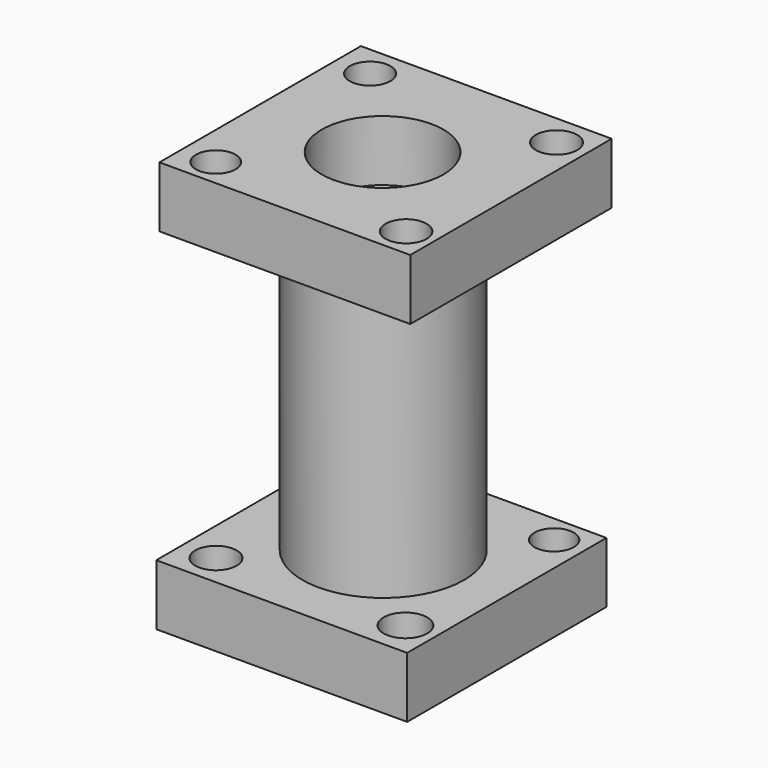
from build123d import *

# Parameters (mm, degrees)
F0_W      = 78.632404
F0_H      = 78.044064
F1_DEPTH  = 19.05
F7_R      = 19.67966
F8_DEPTH  = 25.4
F9_R      = 25.337788
F10_DEPTH = 88.9
F11_W     = 78.605324
F11_H     = 78.906078
F12_DEPTH = 19.05
F13_R     = 19.066656
F14_DEPTH = 19.05
F6_R      = 6.832472
F15_DEPTH = 304.8
F4_R      = 6.169539
F16_DEPTH = 25.4
F3_R      = 6.600699
F17_DEPTH = 25.4
F5_R      = 6.490494
F18_DEPTH = 25.4
F19_R     = 6.482052
F19_R_2   = 6.426585
F19_R_3   = 6.219267
F19_R_4   = 6.38041
F20_DEPTH = 25.4


with BuildPart() as f1:
    # F0 (on Top) → F1 (new body)
    with BuildSketch(Plane.XY):
        with Locations((-12.092622, -33.094514)):
            Rectangle(F0_W, F0_H)
    extrude(amount=F1_DEPTH)

    # F7 (on face) → F8 (cut)
    with BuildSketch(Plane.XY.offset(19.05)):
        with Locations((-11.63225, -33.066146)):
            Circle(F7_R)
    extrude(amount=-F8_DEPTH, mode=Mode.SUBTRACT)

    # F9 (on face) → F10 (join)
    with BuildSketch(Plane.XY.offset(19.05)):
        with Locations((-11.359275, -33.27705)):
            Circle(F9_R)
    extrude(amount=F10_DEPTH)

    # F11 (on face) → F12 (join)
    with BuildSketch(Plane.XY.offset(107.95)):
        with Locations((-13.666842, -29.469063)):
            Rectangle(F11_W, F11_H)
    extrude(amount=F12_DEPTH)

    # F13 (on face) → F14 (cut)
    with BuildSketch(Plane.XY.offset(127)):
        with Locations((-13.757879, -30.534975)):
            Circle(F13_R)
    extrude(amount=-F14_DEPTH, mode=Mode.SUBTRACT)

    # F6 (on face) → F15 (cut)
    with BuildSketch(Plane.XY.offset(19.05)):
        with Locations((17.793169, -61.01913)):
            Circle(F6_R)
    extrude(amount=-F15_DEPTH, mode=Mode.SUBTRACT)

    # F4 (on face) → F16 (cut)
    with BuildSketch(Plane.XY.offset(19.05)):
        with Locations((17.894953, -2.897272)):
            Circle(F4_R)
    extrude(amount=-F16_DEPTH, mode=Mode.SUBTRACT)

    # F3 (on face) → F17 (cut)
    with BuildSketch(Plane.XY.offset(19.05)):
        with Locations((-42.325243, -4.469179)):
            Circle(F3_R)
    extrude(amount=-F17_DEPTH, mode=Mode.SUBTRACT)

    # F5 (on face) → F18 (cut)
    with BuildSketch(Plane.XY.offset(19.05)):
        with Locations((-40.706113, -62.110294)):
            Circle(F5_R)
    extrude(amount=-F18_DEPTH, mode=Mode.SUBTRACT)

    # F19 (on face) → F20 (cut)
    with BuildSketch(Plane.XY.offset(127)):
        with Locations((16.331086, 0)):
            Circle(F19_R)
        with Locations((16.997535, -59.755784)):
            Circle(F19_R_2)
        with Locations((-42.323295, -60.177404)):
            Circle(F19_R_3)
        with Locations((-42.10072, 0)):
            Circle(F19_R_4)
    extrude(amount=-F20_DEPTH, mode=Mode.SUBTRACT)


solid = f1.part
